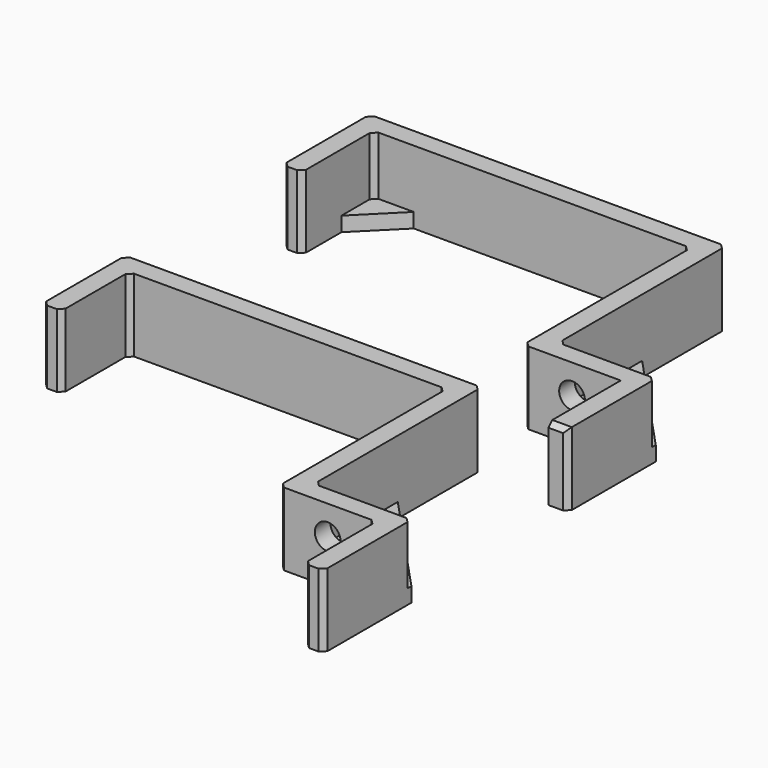
from build123d import *

# Parameters (mm, degrees)
F1_DEPTH  = 15
F2_DEPTH  = 3
F3_SIZE   = 1
F4_R      = 2.65
F5_DEPTH  = 25
F7_DEPTH  = 15
F8_DEPTH  = 3
F9_R      = 2.65
F10_DEPTH = 25
F11_SIZE  = 1


with BuildPart() as f1:
    # F0 (on Top) → F1 (new body)
    with BuildSketch(Plane.XY):
        Polygon((20, 20), (20, 1.434709), (24, 1.434709), (24, 24), (4, 24), (4, 45.5), (4, 67), (-69.2, 67), (-69.2, 44.640538), (-65.2, 44.640538), (-65.2, 54.745654), (-65.2, 63), (-56.945654, 63), (-8.254346, 63), (0, 63), (0, 54.745654), (0, 20), align=None)
    extrude(amount=F1_DEPTH)

    # F0 (on Top) → F2 (join)
    with BuildSketch(Plane.XY):
        Polygon((-65.2, 54.745654), (-56.945654, 63), (-65.2, 63), align=None)
        Polygon((-8.254346, 63), (0, 54.745654), (0, 63), align=None)
        Polygon((4, 24), (24, 24), (4, 45.5), align=None)
    extrude(amount=F2_DEPTH)

    # F3
    f3_edges = [f1.edges().sort_by_distance(p)[0] for p in [
        (0, 63, 9),
        (-65.2, 63, 9),
        (4, 24, 9),
        (24, 24, 9),
        (4, 67, 7.5),
        (0, 20, 7.5),
        (22, 1.434709, 15),
        (24, 1.434709, 7.5),
        (-69.2, 67, 7.5),
        (-69.2, 44.640538, 7.5),
        (-65.2, 44.640538, 7.5),
    ]]
    chamfer(f3_edges, length=F3_SIZE)

    # F4 (on face) → F5 (cut)
    with BuildSketch(Plane.XZ.offset(-20)):
        with Locations((10, 9)):
            Circle(F4_R)
    extrude(amount=-F5_DEPTH, mode=Mode.SUBTRACT)


with BuildPart() as f7:
    # F6 (on Top) → F7 (new body)
    with BuildSketch(Plane.XY):
        Polygon((20.017605, -42.801045), (20.017605, -61.366337), (24.017605, -61.366337), (24.017605, -38.801045), (4.017605, -38.801045), (4.017605, -17.301045), (4.017605, 4.198955), (-69.182395, 4.198955), (-69.182395, -17.160508), (-65.182395, -17.160508), (-65.182395, -7.055392), (-65.182395, 0.198955), (-57.928049, 0.198955), (-7.236742, 0.198955), (0.017605, 0.198955), (0.017605, -7.055392), (0.017605, -42.801045), align=None)
    extrude(amount=F7_DEPTH)

    # F6 (on Top) → F8 (join)
    with BuildSketch(Plane.XY):
        Polygon((4.017605, -38.801045), (24.017605, -38.801045), (4.017605, -17.301045), align=None)
    extrude(amount=F8_DEPTH)

    # F9 (on face) → F10 (cut)
    with BuildSketch(Plane.XZ.offset(42.801045)):
        with Locations((10.017605, 9)):
            Circle(F9_R)
    extrude(amount=-F10_DEPTH, mode=Mode.SUBTRACT)

    # F11
    f11_edges = [f7.edges().sort_by_distance(p)[0] for p in [
        (-69.182395, 4.198955, 7.5),
        (-69.182395, -17.160508, 7.5),
        (-65.182395, -17.160508, 7.5),
        (-65.182395, 0.198955, 7.5),
        (0.017605, -42.801045, 7.5),
        (4.017605, 4.198955, 7.5),
        (0.017605, 0.198955, 7.5),
        (4.017605, -38.801045, 9),
        (24.017605, -38.801045, 9),
        (24.017605, -61.366337, 7.5),
        (20.017605, -61.366337, 7.5),
        (20.017605, -42.801045, 7.5),
    ]]
    chamfer(f11_edges, length=F11_SIZE)


solid = Compound([f1.part, f7.part])
